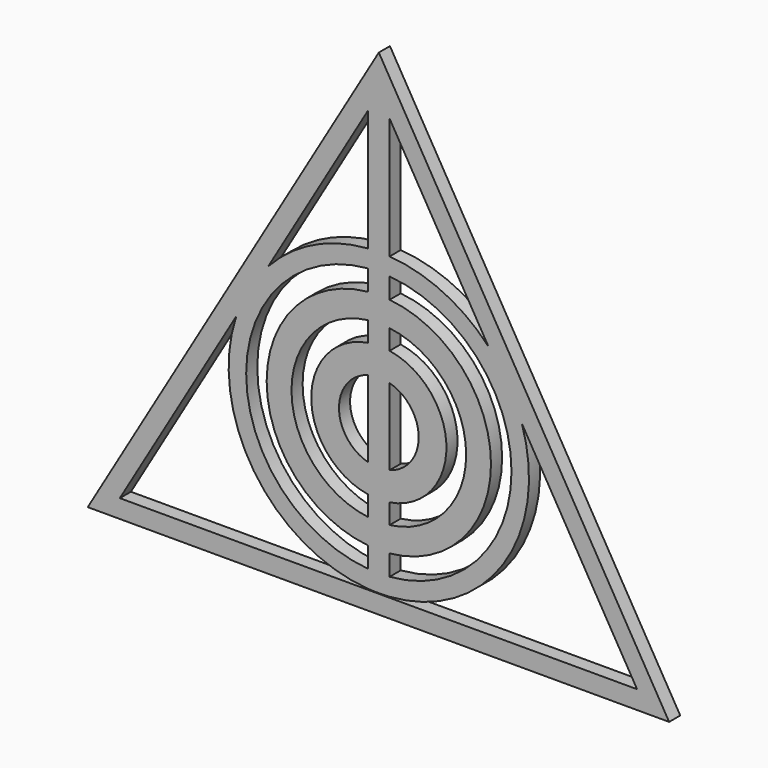
from build123d import *

# Parameters (mm, degrees)
F1_DEPTH = 2.5


with BuildPart() as f1:
    # F0 (on Front) → F1 (new body)
    with BuildSketch(Plane.XZ):
        Polygon((52.2287525237, -26.3921879232), (0, 62.6467168331), (-52.367657423, -26.3921879232), align=None)
        Polygon((25.7395030085, 12.2401500318), (46.4636957768, -23.0901869354), (1.9398448926, -23.0901869354), (-1.9525762507, -23.0901869354), (-46.5948404749, -23.0901869354), (-25.6454423536, 12.5293453449), (-19.8928530583, 22.3102726494), (-1.9525762507, 52.8135007214), (-0.0037810953, 56.1269692776), (1.9398448926, 52.8135007214), (19.728690651, 22.4873055381), align=None, mode=Mode.SUBTRACT)
        with BuildLine():
            ThreePointArc((-1.9525762507, -22.9187820592), (-0.0063822594, -22.989430241), (1.9398448926, -22.9197015464))
            Line((1.9398448926, -22.9197015464), (1.9398448926, -19.7604708833))
            Line((1.9398448926, -19.7604708833), (1.9398448926, -16.0598084555))
            Line((1.9398448926, -16.0598084555), (1.9398448926, -11.5638747518))
            Line((1.9398448926, -11.5638747518), (1.9398448926, -7.9767906652))
            Line((1.9398448926, -7.9767906652), (1.9398448926, -2.8751975899))
            Line((1.9398448926, -2.8751975899), (1.9398448926, 10.9317609152))
            Line((1.9398448926, 10.9317609152), (1.9398448926, 16.0333539904))
            Line((1.9398448926, 16.0333539904), (1.9398448926, 19.620438077))
            Line((1.9398448926, 19.620438077), (1.9398448926, 24.1163717807))
            Line((1.9398448926, 24.1163717807), (1.9398448926, 27.8170342086))
            Line((1.9398448926, 27.8170342086), (1.9398448926, 30.9762648716))
            Line((1.9398448926, 30.9762648716), (1.9398448926, 52.8135007214))
            Line((1.9398448926, 52.8135007214), (-0.0037810953, 56.1269692776))
            Line((-0.0037810953, 56.1269692776), (-1.9525762507, 52.8135007214))
            Line((-1.9525762507, 52.8135007214), (-1.9525762507, 30.9753453844))
            Line((-1.9525762507, 30.9753453844), (-1.9525762507, 27.8159926051))
            Line((-1.9525762507, 27.8159926051), (-1.9525762507, 24.1151382805))
            Line((-1.9525762507, 24.1151382805), (-1.9525762507, 19.6188488698))
            Line((-1.9525762507, 19.6188488698), (-1.9525762507, 16.0312898601))
            Line((-1.9525762507, 16.0312898601), (-1.9525762507, 10.9281707909))
            Line((-1.9525762507, 10.9281707909), (-1.9525762507, -2.8716074657))
            Line((-1.9525762507, -2.8716074657), (-1.9525762507, -7.9747265348))
            Line((-1.9525762507, -7.9747265348), (-1.9525762507, -11.5622855446))
            Line((-1.9525762507, -11.5622855446), (-1.9525762507, -16.0585749552))
            Line((-1.9525762507, -16.0585749552), (-1.9525762507, -19.7594292799))
            Line((-1.9525762507, -19.7594292799), (-1.9525762507, -22.9187820592))
        make_face()
        with BuildLine():
            ThreePointArc((-25.6454423536, 12.5293453449), (-22.4623037962, -10.9851025464), (-1.9525762507, -22.9187820592))
            Line((-1.9525762507, -22.9187820592), (-1.9525762507, -19.7594292799))
            ThreePointArc((-1.9525762507, -19.7594292799), (-23.8677134619, 4.0282816626), (-1.9525762507, 27.8159926051))
            Line((-1.9525762507, 27.8159926051), (-1.9525762507, 30.9753453844))
            ThreePointArc((-1.9525762507, 30.9753453844), (-11.750598572, 28.35687041), (-19.8928530583, 22.3102726494))
            Line((-19.8928530583, 22.3102726494), (-25.6454423536, 12.5293453449))
        make_face()
        with BuildLine():
            Line((1.9398448926, -11.5638747518), (1.9398448926, -16.0598084555))
            ThreePointArc((1.9398448926, -16.0598084555), (20.1815351943, 4.0282816626), (1.9398448926, 24.1163717807))
            Line((1.9398448926, 24.1163717807), (1.9398448926, 19.620438077))
            ThreePointArc((1.9398448926, 19.620438077), (15.712362644, 4.0282816626), (1.9398448926, -11.5638747518))
        make_face()
        with BuildLine():
            ThreePointArc((-1.9525762507, 24.1151382805), (-20.1815351943, 4.0282816626), (-1.9525762507, -16.0585749552))
            Line((-1.9525762507, -16.0585749552), (-1.9525762507, -11.5622855446))
            ThreePointArc((-1.9525762507, -11.5622855446), (-15.712362644, 4.0282816626), (-1.9525762507, 19.6188488698))
            Line((-1.9525762507, 19.6188488698), (-1.9525762507, 24.1151382805))
        make_face()
        with BuildLine():
            ThreePointArc((1.9398448926, -22.9197015464), (22.3738768614, -11.1165666837), (25.7395030085, 12.2401500318))
            Line((25.7395030085, 12.2401500318), (19.728690651, 22.4873055381))
            ThreePointArc((19.728690651, 22.4873055381), (11.636020187, 28.411879253), (1.9398448926, 30.9762648716))
            Line((1.9398448926, 30.9762648716), (1.9398448926, 27.8170342086))
            ThreePointArc((1.9398448926, 27.8170342086), (23.8677134619, 4.0282816626), (1.9398448926, -19.7604708833))
            Line((1.9398448926, -19.7604708833), (1.9398448926, -22.9197015464))
        make_face()
        with BuildLine():
            Line((1.9398448926, -2.8751975899), (1.9398448926, -7.9767906652))
            ThreePointArc((1.9398448926, -7.9767906652), (12.1607877953, 4.0282816626), (1.9398448926, 16.0333539904))
            Line((1.9398448926, 16.0333539904), (1.9398448926, 10.9317609152))
            ThreePointArc((1.9398448926, 10.9317609152), (7.1708454172, 4.0282816626), (1.9398448926, -2.8751975899))
        make_face()
        with BuildLine():
            ThreePointArc((-1.9525762507, 16.0312898601), (-12.1607877953, 4.0282816626), (-1.9525762507, -7.9747265348))
            Line((-1.9525762507, -7.9747265348), (-1.9525762507, -2.8716074657))
            ThreePointArc((-1.9525762507, -2.8716074657), (-7.1708454172, 4.0282816626), (-1.9525762507, 10.9281707909))
            Line((-1.9525762507, 10.9281707909), (-1.9525762507, 16.0312898601))
        make_face()
    extrude(amount=F1_DEPTH)


solid = f1.part
